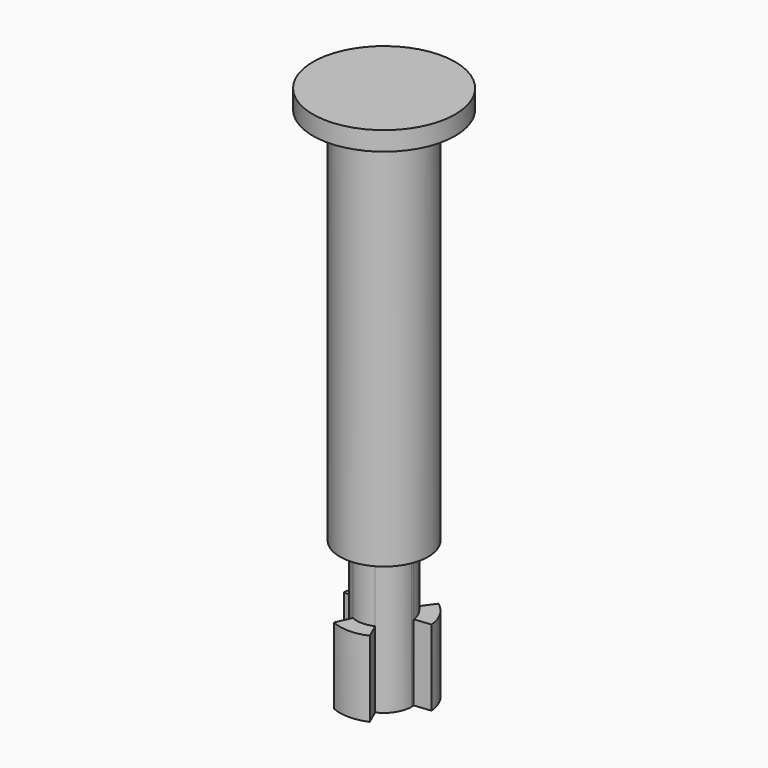
from build123d import *

# Parameters (mm, degrees)
F1_DEPTH = 8
F2_DEPTH = 14.5
F3_R     = 4.65
F3_R_2   = 2.9
F4_DEPTH = 40
F5_R     = 7.5
F5_R_2   = 4.65
F6_DEPTH = 2


with BuildPart() as f1:
    # F0 (on Top) → F1 (new body)
    with BuildSketch(Plane.XY):
        with BuildLine():
            Line((-1.704577, 2.346149), (-2.733201, 3.761929))
            ThreePointArc((-2.733201, 3.761929), (-4.027018, 2.325), (-4.624527, 0.486057))
            Line((-4.624527, 0.486057), (-2.884113, 0.303133))
            ThreePointArc((-2.884113, 0.303133), (-2.511474, 1.45), (-1.704577, 2.346149))
        make_face()
        with BuildLine():
            Line((2.733201, 3.761929), (1.704577, 2.346149))
            ThreePointArc((1.704577, 2.346149), (2.511474, 1.45), (2.884113, 0.303133))
            Line((2.884113, 0.303133), (4.624527, 0.486057))
            ThreePointArc((4.624527, 0.486057), (4.027018, 2.325), (2.733201, 3.761929))
        make_face()
        with BuildLine():
            ThreePointArc((1.179536, -2.649282), (0, -2.9), (-1.179536, -2.649282))
            Line((-1.179536, -2.649282), (-1.891325, -4.247986))
            ThreePointArc((-1.891325, -4.247986), (0, -4.65), (1.891325, -4.247986))
            Line((1.891325, -4.247986), (1.179536, -2.649282))
        make_face()
    extrude(amount=F1_DEPTH)


with BuildPart() as f2:
    # F0 (on Top) → F2 (new body)
    with BuildSketch(Plane.XY):
        with BuildLine():
            ThreePointArc((1.704577, 2.346149), (0, 2.9), (-1.704577, 2.346149))
            ThreePointArc((-1.704577, 2.346149), (-2.511474, 1.45), (-2.884113, 0.303133))
            ThreePointArc((-2.884113, 0.303133), (-2.511474, -1.45), (-1.179536, -2.649282))
            ThreePointArc((-1.179536, -2.649282), (0, -2.9), (1.179536, -2.649282))
            ThreePointArc((1.179536, -2.649282), (2.432145, -1.579453), (2.9, 0))
            ThreePointArc((2.9, 0), (2.896026, 0.151774), (2.884113, 0.303133))
            ThreePointArc((2.884113, 0.303133), (2.511474, 1.45), (1.704577, 2.346149))
        make_face()
    extrude(amount=F2_DEPTH)

    # F3 (on face) → F4 (join)
    with BuildSketch(Plane.XY.offset(14.5)):
        Circle(F3_R)
        Circle(F3_R_2, mode=Mode.SUBTRACT)
        Circle(F3_R_2)
    extrude(amount=F4_DEPTH)

    # F5 (on face) → F6 (join)
    with BuildSketch(Plane.XY.offset(54.5)):
        Circle(F5_R)
        Circle(F5_R_2, mode=Mode.SUBTRACT)
        Circle(F5_R_2)
    extrude(amount=F6_DEPTH)

    # F7 (on face) → F8 (revolve, cut)
    with BuildSketch(Plane(origin=(0, 0, 14.5), x_dir=(1, 0, 0), z_dir=(0, 0, -1))):
        with BuildLine():
            Line((-2.511474, 1.45), (-4.027018, 2.325))
            ThreePointArc((-4.027018, 2.325), (-3.706746, 1.129728), (-2.511474, 1.45))
        make_face()
    revolve(axis=Axis((-3.269246, -1.8875, 14.5), (0.866025, 0.5, 0)), mode=Mode.SUBTRACT)

    # F7 (on face) → F9 (revolve, cut)
    with BuildSketch(Plane(origin=(0, 0, 14.5), x_dir=(1, 0, 0), z_dir=(0, 0, -1))):
        with BuildLine():
            Line((2.511474, 1.45), (4.027018, 2.325))
            ThreePointArc((4.027018, 2.325), (2.831746, 2.645272), (2.511474, 1.45))
        make_face()
    revolve(axis=Axis((3.269246, -1.8875, 14.5), (0.866025, -0.5, 0)), mode=Mode.SUBTRACT)

    # F7 (on face) → F10 (revolve, cut)
    with BuildSketch(Plane(origin=(0, 0, 14.5), x_dir=(1, 0, 0), z_dir=(0, 0, -1))):
        with BuildLine():
            Line((0, -2.9), (0, -4.65))
            ThreePointArc((0, -4.65), (0.875, -3.775), (0, -2.9))
        make_face()
    revolve(axis=Axis((0, 3.775, 14.5), (0, 1, 0)), mode=Mode.SUBTRACT)


solid = Compound([f1.part, f2.part])
